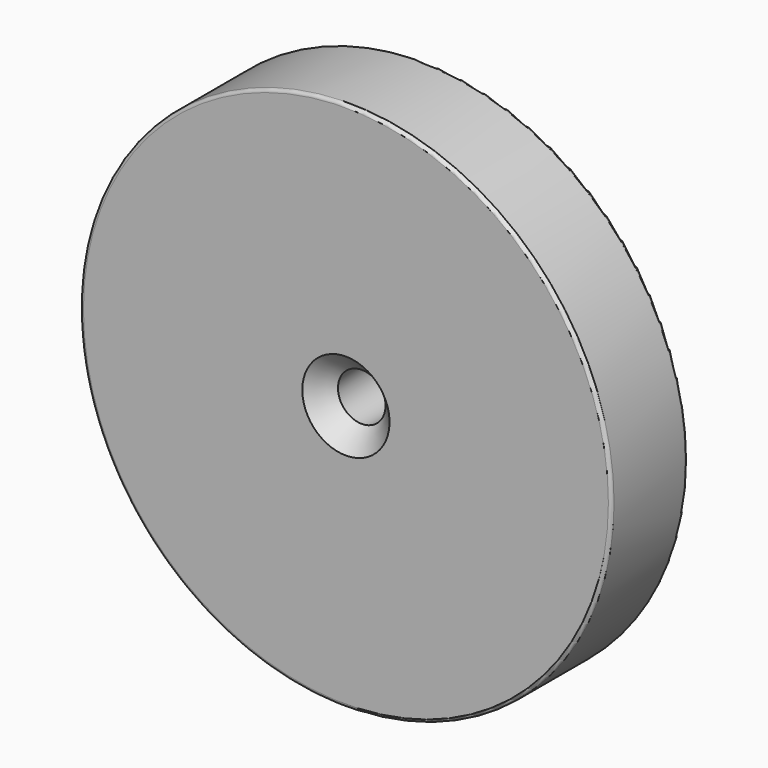
from build123d import *

# Parameters (mm, degrees)
F0_R           = 16.75
F1_DEPTH       = 6
F3_D           = 3
F3_CSINK_D     = 5.5
F3_CSINK_ANGLE = 90
F4_R           = 0.2


with BuildPart() as f1:
    # F0 (on Front) → F1 (new body)
    with BuildSketch(Plane.XZ):
        Circle(F0_R)
    extrude(amount=F1_DEPTH)

    # F3 (through all)
    with Locations(Plane.XZ.offset(6)):
        with Locations((0, 0)):
            CounterSinkHole(F3_D / 2, F3_CSINK_D / 2, counter_sink_angle=F3_CSINK_ANGLE)

    # F4
    f4_edges = [f1.edges().sort_by_distance(p)[0] for p in [
        (-16.75, -6, 0),
        (-16.75, 0, 0),
    ]]
    fillet(f4_edges, radius=F4_R)


solid = f1.part
